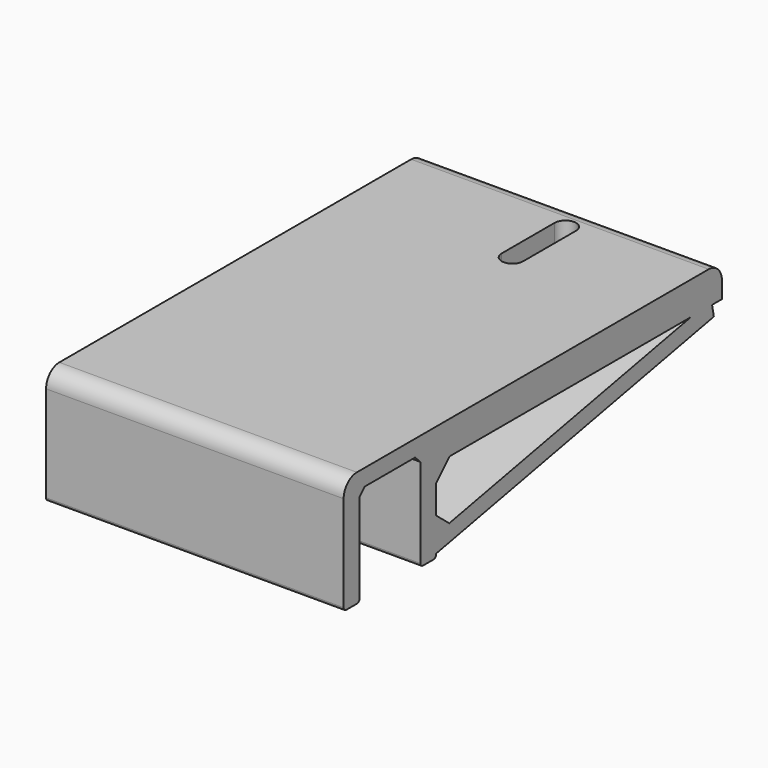
from build123d import *

# Parameters (mm, degrees)
EXTRUDE_DEPTH     = 40
BOX004_W          = 10
BOX004_H          = 33
BOX004_DEPTH      = 11
BOX004_ROLL_ANGLE = 10
BOX_W             = 90
BOX_H             = 23
BOX_DEPTH         = 30
BOX002_W          = 90
BOX002_H          = 110
BOX002_DEPTH      = 10
BOX003_W          = 90
BOX003_H          = 110
BOX003_DEPTH      = 5
BOX003_ROLL_ANGLE = 11
BOX001_W          = 90
BOX001_H          = 35
BOX001_DEPTH      = 35
CHAMFER_SIZE      = 5
FILLET_R          = 5
FILLET001_R       = 5
FILLET002_R       = 1
CHAMFER001_SIZE   = 2


with BuildPart() as extrude_body:
    # Sketch → Extrude (new body)
    with BuildSketch(Plane.XY):
        with BuildLine():
            ThreePointArc((3.239725, 4.799999), (0, 8.039724), (-3.239725, 4.799999))
            Line((-3.239725, 4.799999), (-3.239725, -15.2))
            ThreePointArc((-3.239725, -15.2), (0, -18.439725), (3.239725, -15.2))
            Line((3.239725, 4.799999), (3.239725, -15.2))
        make_face()
    extrude(amount=EXTRUDE_DEPTH)


with BuildPart() as extrude_body_1:
    # Extrude placement: moved
    add(extrude_body.part.moved(Location((50, 123, 0))))


with BuildPart() as cubo:
    # Box004 → Box004 (new body)
    with BuildSketch(Plane.XY):
        with Locations((5, 16.5)):
            Rectangle(BOX004_W, BOX004_H)
    extrude(amount=BOX004_DEPTH)


with BuildPart() as cubo_1:
    # Box004 roll: moved
    add(cubo.part.rotate(Axis((0, 0, 0), (1, 0, 0)), BOX004_ROLL_ANGLE))


with BuildPart() as cubo_2:
    # Box004 placement: moved
    add(cubo_1.part.moved(Location((45, 100.726682, 17.263939))))


with BuildPart() as obj1:
    # Box → Box (new body)
    with BuildSketch(Plane.XY):
        with Locations((45, 11.5)):
            Rectangle(BOX_W, BOX_H)
    extrude(amount=BOX_DEPTH)


with BuildPart() as soporte_superior:
    # Box002 → Box002 (new body)
    with BuildSketch(Plane(origin=(0, 27, 25), x_dir=(1, 0, 0), z_dir=(0, 0, 1))):
        with Locations((45, 55)):
            Rectangle(BOX002_W, BOX002_H)
    extrude(amount=BOX002_DEPTH)


with BuildPart() as soporte_superior001:
    # Box003 → Box003 (new body)
    with BuildSketch(Plane.XY):
        with Locations((45, 55)):
            Rectangle(BOX003_W, BOX003_H)
    extrude(amount=BOX003_DEPTH)


with BuildPart() as soporte_superior001_1:
    # Box003 roll: moved
    add(soporte_superior001.part.rotate(Axis((0, 0, 0), (1, 0, 0)), BOX003_ROLL_ANGLE))


with BuildPart() as soporte_superior001_2:
    # Box003 placement: moved
    add(soporte_superior001_1.part.moved(Location((0, 25.96455, 0.597369))))


with BuildPart() as obj2:
    # Box001 → Box001 (new body)
    with BuildSketch(Plane(origin=(0, -6, 0), x_dir=(1, 0, 0), z_dir=(0, 0, 1))):
        with Locations((45, 17.5)):
            Rectangle(BOX001_W, BOX001_H)
    extrude(amount=BOX001_DEPTH)

    # Fusion: union soporte superior, soporte superior001
    add(soporte_superior.part)
    add(soporte_superior001_2.part)

    # Cut: cut obj1
    add(obj1.part, mode=Mode.SUBTRACT)

    # Chamfer
    chamfer_edges = [obj2.edges().sort_by_distance(p)[0] for p in [
        (45, 29, 25),
        (45, 29, 6.280985),
    ]]
    chamfer(chamfer_edges, length=CHAMFER_SIZE)

    # Fillet
    fillet_edges = [obj2.edges().sort_by_distance(p)[0] for p in [
        (45, -6, 35),
    ]]
    fillet(fillet_edges, radius=FILLET_R)

    # Fillet001
    fillet001_edges = [obj2.edges().sort_by_distance(p)[0] for p in [
        (45, 137, 35),
    ]]
    fillet(fillet001_edges, radius=FILLET001_R)

    # Fillet002
    fillet002_edges = [obj2.edges().sort_by_distance(p)[0] for p in [
        (45, -6, 0),
        (45, 0, 0),
        (45, 29, 0),
        (45, 23, 0),
    ]]
    fillet(fillet002_edges, radius=FILLET002_R)

    # Chamfer001
    chamfer001_edges = [obj2.edges().sort_by_distance(p)[0] for p in [
        (45, 0, 30),
        (45, 23, 30),
    ]]
    chamfer(chamfer001_edges, length=CHAMFER001_SIZE)

    # Fusion001: union Cubo
    add(cubo_2.part)

    # Cut001: cut Extrude body
    add(extrude_body_1.part, mode=Mode.SUBTRACT)


solid = obj2.part
